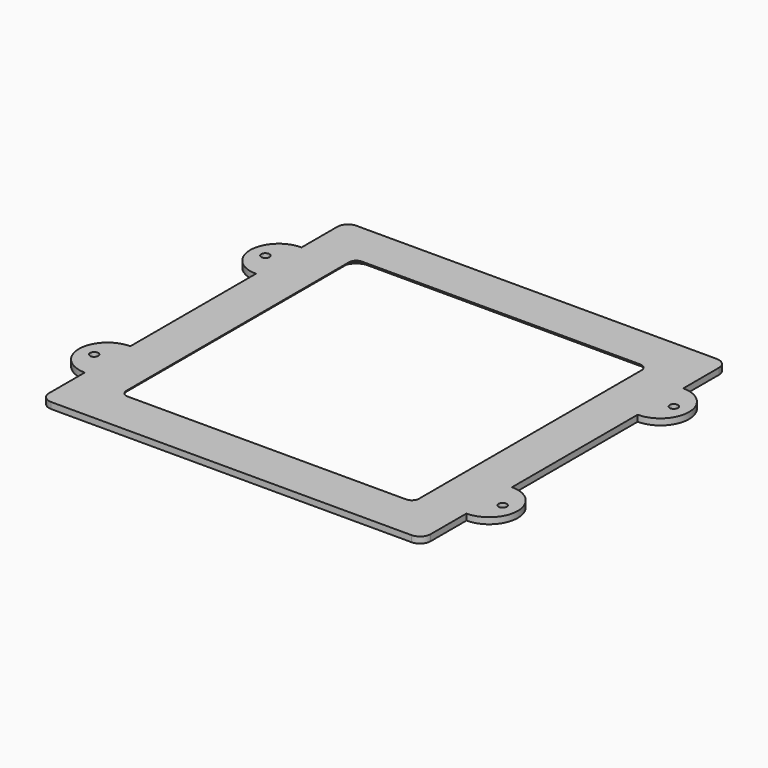
from build123d import *

# Parameters (mm, degrees)
SKETCH025_W             = 107
SKETCH025_H             = 107
SKETCH025_W_2           = 82
SKETCH025_H_2           = 82
PAD005_DEPTH            = 1.75
SKETCH026_R             = 1.15
PAD006_DEPTH            = 1.75
FILLET008_R             = 3
FILLET009_R             = 2
CHAMFER014_SIZE2        = 2
CHAMFER014_SIZE         = 1.5
BODY005_PLACEMENT_ANGLE = 180


with BuildPart() as part:
    # Sketch025 → Pad005 (new body)
    with BuildSketch(Plane.XY):
        Rectangle(SKETCH025_W, SKETCH025_H)
        Rectangle(SKETCH025_W_2, SKETCH025_H_2, mode=Mode.SUBTRACT)
    extrude(amount=PAD005_DEPTH)

    # Sketch026 → Pad006 (join)
    with BuildSketch(Plane.XY):
        with BuildLine():
            ThreePointArc((-53.5, 38), (-61.5, 30), (-53.5, 22))
            Line((-53.5, 38), (-53.5, 22))
        make_face()
        with Locations((-57.25, 30)):
            Circle(SKETCH026_R, mode=Mode.SUBTRACT)
        with BuildLine():
            ThreePointArc((-53.5, -22), (-61.5, -30), (-53.5, -38))
            Line((-53.5, -22), (-53.5, -38))
        make_face()
        with Locations((-57.25, -30)):
            Circle(SKETCH026_R, mode=Mode.SUBTRACT)
        with BuildLine():
            Line((53.5, 38), (53.5, 22))
            ThreePointArc((53.5, 22), (61.5, 30), (53.5, 38))
        make_face()
        with Locations((57.25, 30)):
            Circle(SKETCH026_R, mode=Mode.SUBTRACT)
        with BuildLine():
            ThreePointArc((53.5, -38), (61.5, -30), (53.5, -22))
            Line((53.5, -22), (53.5, -38))
        make_face()
        with Locations((57.25, -30)):
            Circle(SKETCH026_R, mode=Mode.SUBTRACT)
    extrude(amount=PAD006_DEPTH)

    # Fillet008
    fillet008_edges = [part.edges().sort_by_distance(p)[0] for p in [
        (-53.5, 53.5, 0.875),
        (53.5, 53.5, 0.875),
        (53.5, -53.5, 0.875),
        (-53.5, -53.5, 0.875),
    ]]
    fillet(fillet008_edges, radius=FILLET008_R)

    # Fillet009
    fillet009_edges = [part.edges().sort_by_distance(p)[0] for p in [
        (-41, 41, 0.875),
        (41, 41, 0.875),
        (41, -41, 0.875),
        (-41, -41, 0.875),
    ]]
    fillet(fillet009_edges, radius=FILLET009_R)

    # Chamfer014
    chamfer014_edges = [part.edges().sort_by_distance(p)[0] for p in [
        (-41, 0, 1.75),
    ]]
    chamfer014_side = part.faces().sort_by_distance((-41, 0, 0.875))[0]
    chamfer(chamfer014_edges, length=CHAMFER014_SIZE, length2=CHAMFER014_SIZE2, reference=chamfer014_side)


with BuildPart() as part_1:
    # Body004 placement: moved
    add(part.part.moved(Location((0, 0, 21.5))))


with BuildPart() as part_2:
    # Body005 placement: moved
    add(part_1.part.rotate(Axis((0, 0, 0), (0, 1, 0)), BODY005_PLACEMENT_ANGLE))


solid = part_2.part
